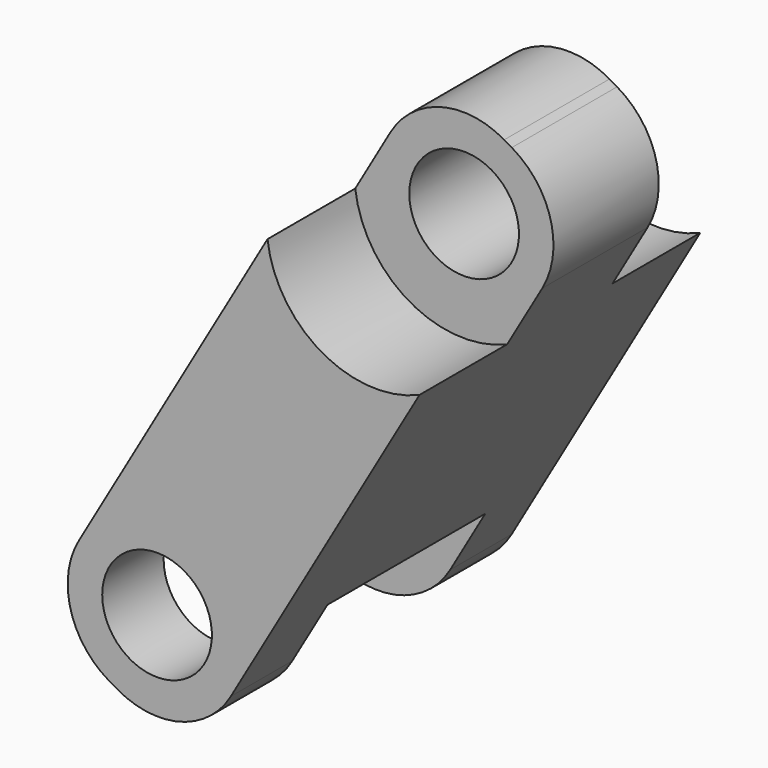
from build123d import *

# Parameters (mm, degrees)
CYLINDER001_R          = 2.5
CYLINDER001_DEPTH      = 2.5
CYLINDER001_ROLL_ANGLE = 90
CYLINDER002_R          = 2.5
CYLINDER002_DEPTH      = 2.5
CYLINDER002_ROLL_ANGLE = 90
CYLINDER_R             = 2.5
CYLINDER_DEPTH         = 4.5
CYLINDER_ROLL_ANGLE    = 90
SKETCH_R               = 1.25
PAD001_DEPTH           = 4
CUT001_PITCH_ANGLE     = -60.000022


with BuildPart() as cylinder001:
    # Cylinder001 → Cylinder001 (new body)
    with BuildSketch(Plane.XY):
        Circle(CYLINDER001_R)
    extrude(amount=CYLINDER001_DEPTH)


with BuildPart() as cylinder001_1:
    # Cylinder001 roll: moved
    add(cylinder001.part.rotate(Axis((0, 0, 0), (1, 0, 0)), CYLINDER001_ROLL_ANGLE))


with BuildPart() as cylinder001_2:
    # Cylinder001 placement: moved
    add(cylinder001_1.part.moved(Location((5, 4, 0))))


with BuildPart() as cylinder002:
    # Cylinder002 → Cylinder002 (new body)
    with BuildSketch(Plane.XY):
        Circle(CYLINDER002_R)
    extrude(amount=CYLINDER002_DEPTH)


with BuildPart() as cylinder002_1:
    # Cylinder002 roll: moved
    add(cylinder002.part.rotate(Axis((0, 0, 0), (1, 0, 0)), CYLINDER002_ROLL_ANGLE))


with BuildPart() as cylinder002_2:
    # Cylinder002 placement: moved
    add(cylinder002_1.part.moved(Location((5, -1.5, 0))))


with BuildPart() as axes_cutout001:
    # Cylinder → Cylinder (new body)
    with BuildSketch(Plane.XY):
        Circle(CYLINDER_R)
    extrude(amount=CYLINDER_DEPTH)


with BuildPart() as axes_cutout001_1:
    # Cylinder roll: moved
    add(axes_cutout001.part.rotate(Axis((0, 0, 0), (1, 0, 0)), CYLINDER_ROLL_ANGLE))


with BuildPart() as axes_cutout001_2:
    # Cylinder placement: moved
    add(axes_cutout001_1.part.moved(Location((-5, 2.25, 0))))

    # Fusion001: union Cylinder001, Cylinder002
    add(cylinder001_2.part)
    add(cylinder002_2.part)


with BuildPart() as track_shape001:
    # Sketch → Pad001 (new body, symmetric)
    with BuildSketch(Plane.XZ):
        with BuildLine():
            Line((-5.1, 2), (5.1, 2))
            ThreePointArc((7, 0.1), (6.443503, 1.443503), (5.1, 2))
            Line((7, 0.1), (7, -0.1))
            ThreePointArc((5.1, -2), (6.443503, -1.443503), (7, -0.1))
            Line((5.1, -2), (-5.1, -2))
            ThreePointArc((-7, -0.1), (-6.443503, -1.443503), (-5.1, -2))
            Line((-7, -0.1), (-7, 0.1))
            ThreePointArc((-5.1, 2), (-6.443503, 1.443503), (-7, 0.1))
        make_face()
        with Locations((-5, 0)):
            Circle(SKETCH_R, mode=Mode.SUBTRACT)
        with Locations((5, 0)):
            Circle(SKETCH_R, mode=Mode.SUBTRACT)
    extrude(amount=PAD001_DEPTH, both=True)

    # Cut001: cut axes-cutout001
    add(axes_cutout001_2.part, mode=Mode.SUBTRACT)


with BuildPart() as track_shape001_1:
    # Cut001 pitch: moved
    add(track_shape001.part.rotate(Axis((0, 0, 0), (0, 1, 0)), CUT001_PITCH_ANGLE))


with BuildPart() as track_shape001_2:
    # Cut001 placement: moved
    add(track_shape001_1.part.moved(Location((7.47807, 0.000117, 4.333453))))


solid = track_shape001_2.part
